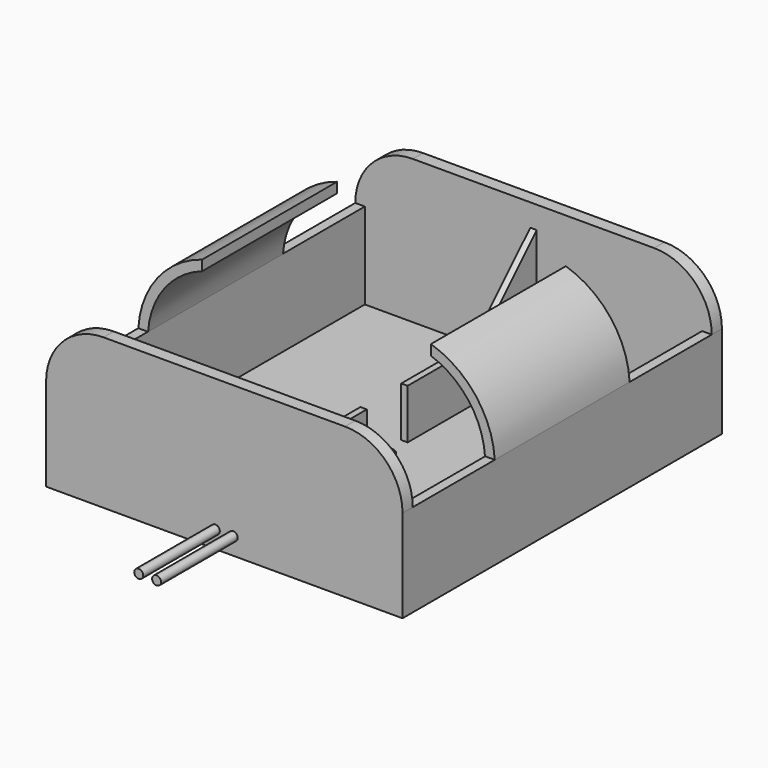
from build123d import *

# Parameters (mm, degrees)
F0_W      = 55.8
F0_H      = 62.5
F0_R      = 2
F0_R_2    = 1.5
F1_DEPTH  = 1
F3_DEPTH  = 2
F5_W      = 58.5
F5_H      = 13.5
F6_DEPTH  = 1.5
F10_DEPTH = 1
F14_DEPTH = 26.4
F16_W     = 3
F16_H     = 0.7499982331
F17_DEPTH = 1
F18_R     = 0.7
F19_DEPTH = 15


with BuildPart() as f1:
    # F0 (on Top) → F1 (new body)
    with BuildSketch(Plane.XY):
        Rectangle(F0_W, F0_H)
        with Locations((-22.3, 0)):
            Circle(F0_R, mode=Mode.SUBTRACT)
        Circle(F0_R_2, mode=Mode.SUBTRACT)
        with Locations((22.3, 0)):
            Circle(F0_R, mode=Mode.SUBTRACT)
    extrude(amount=F1_DEPTH)

    # F4: F3 across plane


with BuildPart() as f3:
    # F2 (on face) → F3 (new body)
    with BuildSketch(Plane.XZ.offset(31.25)):
        with BuildLine():
            Line((-27.9, 14.5), (-27.9, 1))
            Line((-27.9, 1), (27.9, 1))
            Line((27.9, 1), (27.9, 14.5))
            ThreePointArc((27.9, 14.5), (25.2639610307, 20.8639610307), (18.9, 23.5))
            Line((18.9, 23.5), (-18.9, 23.5))
            ThreePointArc((-18.9, 23.5), (-25.2639610307, 20.8639610307), (-27.9, 14.5))
        make_face()
    extrude(amount=-F3_DEPTH)


with BuildPart() as f1_1:
    add(f1.part)
    add(f3.part.mirror(Plane.XZ))


    add(f3.part)  # F6 merges F3
    # F5 (on face) → F6 (join)
    with BuildSketch(Plane.YZ.offset(27.9)):
        with Locations((0, 7.75)):
            Rectangle(F5_W, F5_H)
    extrude(amount=-F6_DEPTH)

    # F7: F1 across plane


with BuildPart() as f1_2:
    add(f1_1.part)
    add(f1_1.part.mirror(Plane.YZ))

    # F9 (on offset) → F10 (join)
    with BuildSketch(Plane.YZ.offset(0.5)):
        Polygon((-18.05, 8.8), (-29.25, 20), (-29.25, 0), (-4, 0), (-4, 8.8), align=None)
    extrude(amount=-F10_DEPTH)

    # F11: F1 across plane


with BuildPart() as f1_3:
    add(f1_2.part)
    add(f1_2.part.mirror(Plane.XZ))

    # F13 (on offset) → F14 (join)
    with BuildSketch(Plane.XZ.offset(13.2)):
        with BuildLine():
            Line((-17.9, 25.599895397), (-17.9, 27.204427321))
            ThreePointArc((-17.9, 27.204427321), (-24.8888113544, 22.4176611255), (-27.9, 14.5))
            Line((-27.9, 14.5), (-26.3714103808, 14.5))
            ThreePointArc((-26.3714103808, 14.5), (-23.805942074, 21.3246680061), (-17.9, 25.599895397))
        make_face()
    extrude(amount=-F14_DEPTH)

    # F15: F1 across plane


with BuildPart() as f1_4:
    add(f1_3.part)
    add(f1_3.part.mirror(Plane.YZ))

    # F16 (on face) → F17 (cut)
    with BuildSketch(Plane.XY.offset(1)):
        with Locations((-6.5461898372, 23.3516955865)):
            Rectangle(F16_W, F16_H)
        Polygon((7.3961903043, 22.9248698354), (8.5211903043, 22.9248698354), (8.5211903043, 23.6748680685), (7.3961903043, 23.6748680685), (7.3961903043, 24.7998698354), (6.6461903043, 24.7998698354), (6.6461903043, 23.6748680685), (5.5211903043, 23.6748680685), (5.5211903043, 22.9248698354), (6.6461903043, 22.9248698354), (6.6461903043, 21.7998698354), (7.3961903043, 21.7998698354), align=None)
        with Locations((6.5461898372, -23.3516955865)):
            Rectangle(F16_W, F16_H)
        Polygon((-6.1711898372, -23.7266947031), (-5.0461898372, -23.7266947031), (-5.0461898372, -22.97669647), (-6.1711898372, -22.97669647), (-6.1711898372, -21.8516947031), (-6.9211898372, -21.8516947031), (-6.9211898372, -22.97669647), (-8.0461898372, -22.97669647), (-8.0461898372, -23.7266947031), (-6.9211898372, -23.7266947031), (-6.9211898372, -24.8516947031), (-6.1711898372, -24.8516947031), align=None)
    extrude(amount=-F17_DEPTH, mode=Mode.SUBTRACT)

    # F18 (on face) → F19 (join)
    with BuildSketch(Plane.XZ.offset(31.25)):
        with Locations((-1.4, 2.7)):
            Circle(F18_R)
        with Locations((1.4, 2.7)):
            Circle(F18_R)
    extrude(amount=F19_DEPTH)


solid = f1_4.part
